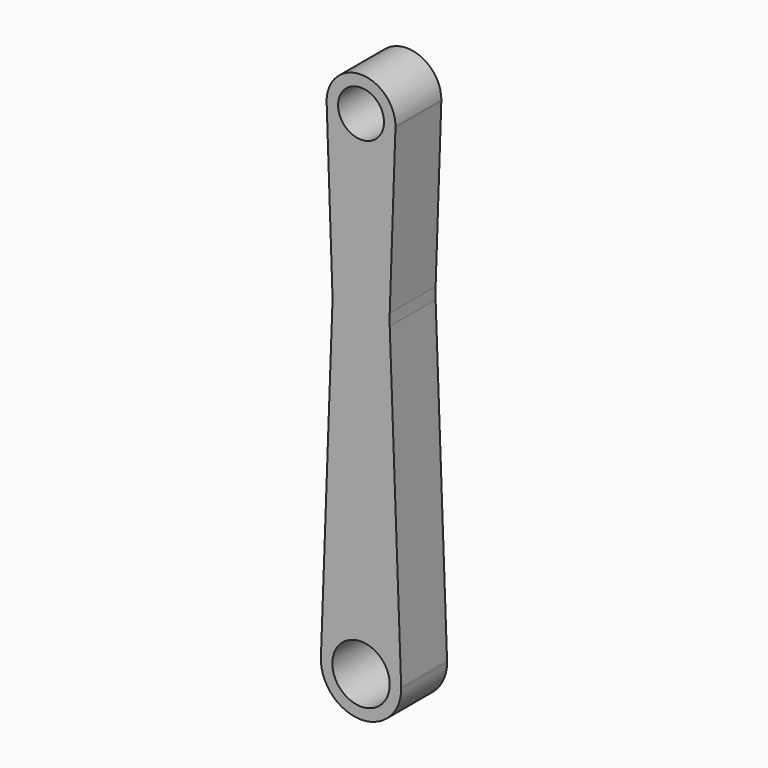
from build123d import *

# Parameters (mm, degrees)
F0_R     = 2
F0_W     = 5
F0_H     = 1
F0_R_2   = 2.5
F1_DEPTH = 5


with BuildPart() as f1:
    # F0 (on Front) → F1 (new body)
    with BuildSketch(Plane.XZ):
        with BuildLine():
            ThreePointArc((2.998205, -0.103758), (2.999551, -0.051887), (3, 0))
            ThreePointArc((3, 0), (-0.051887, 2.999551), (-2.998205, -0.103758))
            ThreePointArc((-2.998205, -0.103758), (0, -3), (2.998205, -0.103758))
        make_face()
        Circle(F0_R, mode=Mode.SUBTRACT)
        with BuildLine():
            ThreePointArc((2.998205, -0.103758), (0, -3), (-2.998205, -0.103758))
            Line((-2.998205, -0.103758), (-2.5, -14.5))
            Line((-2.5, -14.5), (2.5, -14.5))
            Line((2.5, -14.5), (2.998205, -0.103758))
        make_face()
        with Locations((0, -15)):
            Rectangle(F0_W, F0_H)
        with BuildLine():
            Line((2.5, -15.5), (-2.5, -15.5))
            Line((-2.5, -15.5), (-3.497677, -42.872516))
            ThreePointArc((-3.497677, -42.872516), (0, -39.5), (3.497677, -42.872516))
            Line((3.497677, -42.872516), (2.5, -15.5))
        make_face()
        with BuildLine():
            ThreePointArc((3.497677, -42.872516), (0, -39.5), (-3.497677, -42.872516))
            ThreePointArc((-3.497677, -42.872516), (-0.063753, -46.499419), (3.5, -43))
            ThreePointArc((3.5, -43), (3.499419, -42.936247), (3.497677, -42.872516))
        make_face()
        with Locations((0, -43)):
            Circle(F0_R_2, mode=Mode.SUBTRACT)
    extrude(amount=F1_DEPTH)


solid = f1.part
